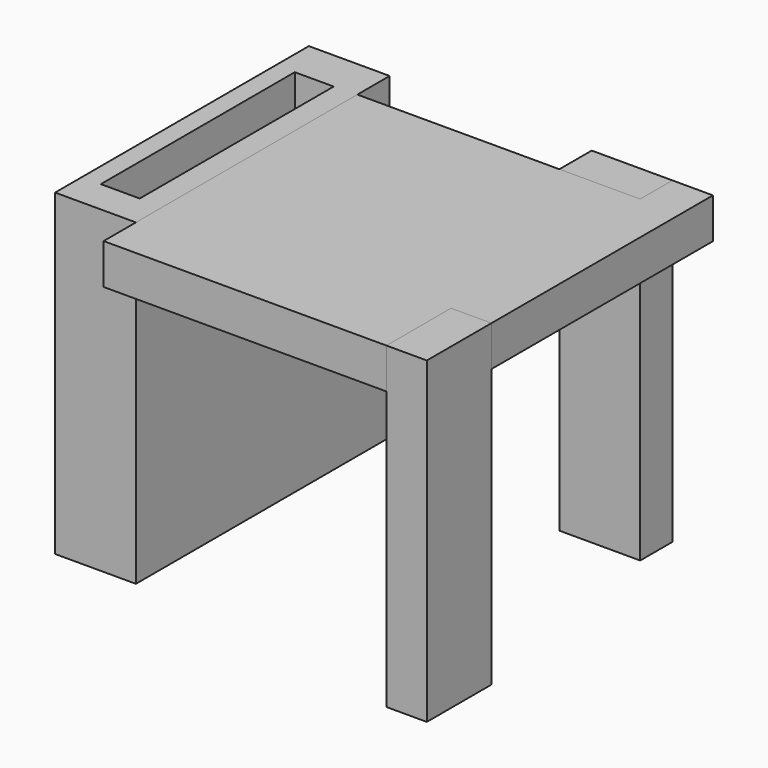
from build123d import *

# Parameters (mm, degrees)
F0_W          = 2
F0_H          = 4
F1_DEPTH      = 13.75
F1_DEPTH_BACK = 2
F2_DEPTH      = 2
F0_W_2        = 4
F0_H_2        = 2
F3_DEPTH      = 13.75
F3_DEPTH_BACK = 2
F4_DEPTH      = 13.75
F4_DEPTH_BACK = 2
F5_W          = 1.9253734684
F5_H          = 12
F6_DEPTH      = 10


with BuildPart() as f1:
    # F0 (on Top) → F1 (new body, two sides)
    with BuildSketch(Plane.XY) as f1_sk:
        with Locations((42.8717488647, -11.5202588253)):
            Rectangle(F0_W, F0_H)
    extrude(amount=-F1_DEPTH)
    extrude(f1_sk.sketch, amount=F1_DEPTH_BACK)


with BuildPart() as f2:
    # F0 (on Top) → F2 (new body)
    with BuildSketch(Plane.XY):
        Polygon((27.8717488647, -13.5202588253), (41.8717488647, -13.5202588253), (41.8717488647, -9.5202588253), (43.8717488647, -9.5202588253), (43.8717488647, 4.1797411747), (41.8717488647, 4.1797411747), (41.8717488647, 2.1797411747), (37.8717488647, 2.1797411747), (27.8717488647, 2.1797411747), (27.8717488647, -11.5202588253), align=None)
    extrude(amount=F2_DEPTH)


with BuildPart() as f3:
    # F0 (on Top) → F3 (new body, two sides)
    with BuildSketch(Plane.XY) as f3_sk:
        with Locations((39.8717488647, 3.1797411747)):
            Rectangle(F0_W_2, F0_H_2)
    extrude(amount=-F3_DEPTH)
    extrude(f3_sk.sketch, amount=F3_DEPTH_BACK)


with BuildPart() as f4:
    # F0 (on Top) → F4 (new body, two sides)
    with BuildSketch(Plane.XY) as f4_sk:
        Polygon((23.8717488647, -11.5202588253), (27.8717488647, -11.5202588253), (27.8717488647, 2.1797411747), (27.8717488647, 4.1797411747), (23.8717488647, 4.1797411747), align=None)
    extrude(amount=-F4_DEPTH)
    extrude(f4_sk.sketch, amount=F4_DEPTH_BACK)

    # F5 (on face) → F6 (cut)
    with BuildSketch(Plane.XY.offset(2)):
        with Locations((25.7747555152, -3.8655172102)):
            Rectangle(F5_W, F5_H)
    extrude(amount=-F6_DEPTH, mode=Mode.SUBTRACT)


solid = Compound([f1.part, f2.part, f3.part, f4.part])
